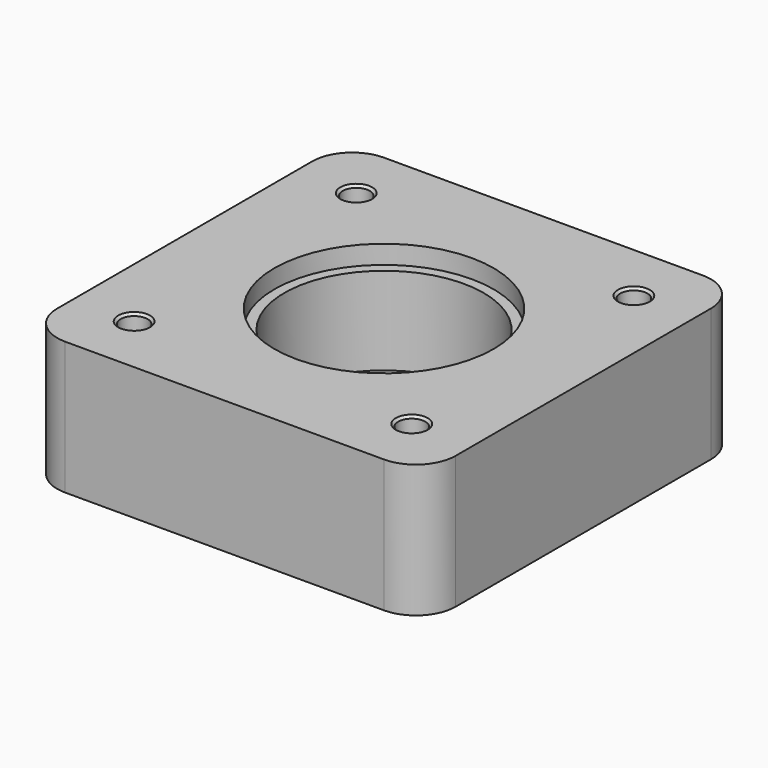
from build123d import *

# Parameters (mm, degrees)
F0_W           = 150
F0_H           = 150
F0_R           = 30
F1_DEPTH       = 50
F2_R           = 37.5
F2_R_2         = 30
F3_DEPTH       = 40
F4_R           = 41.25
F4_R_2         = 37.5
F5_DEPTH       = 7
F7_D           = 10.2
F7_DEPTH       = 40
F7_CSINK_D     = 12
F7_CSINK_ANGLE = 90
F7_TIP         = 3.064389157
F8_R           = 15


with BuildPart() as f1:
    # F0 (on Top) → F1 (new body)
    with BuildSketch(Plane.XY):
        Rectangle(F0_W, F0_H)
        Circle(F0_R, mode=Mode.SUBTRACT)
    extrude(amount=-F1_DEPTH)

    # F2 (on face) → F3 (cut)
    with BuildSketch(Plane.XY):
        Circle(F2_R)
        Circle(F2_R_2, mode=Mode.SUBTRACT)
    extrude(amount=-F3_DEPTH, mode=Mode.SUBTRACT)

    # F4 (on face) → F5 (cut)
    with BuildSketch(Plane.XY):
        Circle(F4_R)
        Circle(F4_R_2, mode=Mode.SUBTRACT)
    extrude(amount=-F5_DEPTH, mode=Mode.SUBTRACT)

    # F7
    with Locations(Plane.XY):
        with Locations((-52.25, 52.25), (52.25, 52.25), (52.25, -52.25), (-52.25, -52.25)):
            CounterSinkHole(F7_D / 2, F7_CSINK_D / 2, depth=F7_DEPTH, counter_sink_angle=F7_CSINK_ANGLE)
            with Locations((0, 0, -(F7_DEPTH + F7_TIP / 2))):  # 118° drill point
                Cone(0, F7_D / 2, F7_TIP, mode=Mode.SUBTRACT)

    # F8
    f8_edges = [f1.edges().sort_by_distance(p)[0] for p in [
        (-75, 75, -25),
        (75, 75, -25),
        (75, -75, -25),
        (-75, -75, -25),
    ]]
    fillet(f8_edges, radius=F8_R)


solid = f1.part
